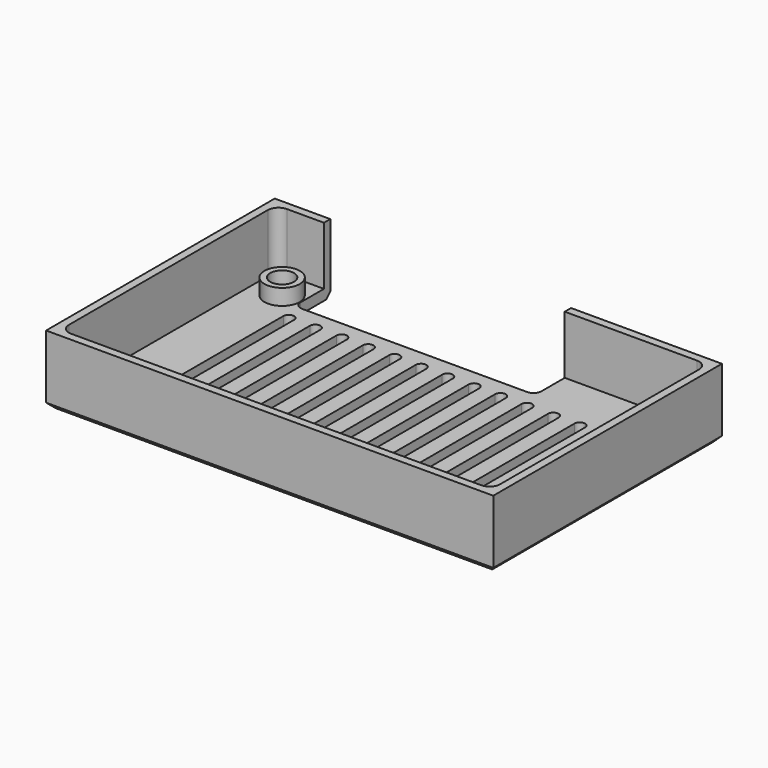
from build123d import *

# Parameters (mm, degrees)
F0_W      = 84.5
F0_H      = 54
F1_DEPTH  = 11
F2_W      = 84.5
F2_H      = 54
F3_DEPTH  = 2
F4_R      = 2.25
F5_DEPTH  = 12.5
F6_R      = 3.35
F6_R_2    = 2.25
F7_DEPTH  = 3
F8_SIZE   = 1
F10_DEPTH = 2


with BuildPart() as f1:
    # F0 (on Top) → F1 (new body)
    with BuildSketch(Plane.XY):
        Rectangle(F0_W, F0_H)
        with BuildLine():
            Line((-40.75, -23.5), (-40.75, 23.5))
            ThreePointArc((-40.75, 23.5), (-40.164214, 24.914214), (-38.75, 25.5))
            Line((-38.75, 25.5), (38.75, 25.5))
            ThreePointArc((38.75, 25.5), (40.164214, 24.914214), (40.75, 23.5))
            Line((40.75, 23.5), (40.75, -23.5))
            ThreePointArc((40.75, -23.5), (40.164214, -24.914214), (38.75, -25.5))
            Line((38.75, -25.5), (-38.75, -25.5))
            ThreePointArc((-38.75, -25.5), (-40.164214, -24.914214), (-40.75, -23.5))
        make_face(mode=Mode.SUBTRACT)
    extrude(amount=F1_DEPTH)

    # F2 (on face) → F3 (join)
    with BuildSketch(Plane(origin=(0, 0, 0), x_dir=(1, 0, 0), z_dir=(0, 0, -1))):
        Rectangle(F2_W, F2_H)
    extrude(amount=F3_DEPTH)

    # F4 (on face) → F5 (cut, symmetric)
    with BuildSketch(Plane.XY):
        with Locations((-35.25, 20)):
            Circle(F4_R)
        with BuildLine():
            ThreePointArc((-31.75, 20), (-31.31066, 18.93934), (-30.25, 18.5))
            Line((-30.25, 18.5), (12.25, 18.5))
            ThreePointArc((12.25, 18.5), (13.31066, 18.93934), (13.75, 20))
            Line((13.75, 20), (13.75, 27))
            Line((13.75, 27), (-31.75, 27))
            Line((-31.75, 27), (-31.75, 20))
        make_face()
        with Locations((-35.25, -20)):
            Circle(F4_R)
        with Locations((35.25, 20)):
            Circle(F4_R)
        with Locations((35.25, -20)):
            Circle(F4_R)
    extrude(amount=F5_DEPTH, both=True, mode=Mode.SUBTRACT)

    # F6 (on face) → F7 (join)
    with BuildSketch(Plane.XY):
        with Locations((-35.25, 20)):
            Circle(F6_R)
        with Locations((-35.25, 20)):
            Circle(F6_R_2, mode=Mode.SUBTRACT)
        with Locations((35.25, 20)):
            Circle(F6_R)
        with Locations((35.25, 20)):
            Circle(F6_R_2, mode=Mode.SUBTRACT)
        with Locations((-35.25, -20)):
            Circle(F6_R)
        with Locations((-35.25, -20)):
            Circle(F6_R_2, mode=Mode.SUBTRACT)
        with Locations((35.25, -20)):
            Circle(F6_R)
        with Locations((35.25, -20)):
            Circle(F6_R_2, mode=Mode.SUBTRACT)
    extrude(amount=F7_DEPTH)

    # F8
    f8_edges = [f1.edges().sort_by_distance(p)[0] for p in [
        (-42.25, 0, -2),
        (-37, 27, -2),
        (28, 27, -2),
        (0, -27, -2),
        (42.25, 0, -2),
    ]]
    chamfer(f8_edges, length=F8_SIZE)

    # F9 (on face) → F10 (cut, through all)
    with BuildSketch(Plane.XY):
        with BuildLine():
            ThreePointArc((1, 15), (0, 16), (-1, 15))
            Line((-1, 15), (-1, -15))
            ThreePointArc((-1, -15), (0, -16), (1, -15))
            Line((1, -15), (1, 15))
        make_face()
        with BuildLine():
            Line((6, -15), (6, 15))
            ThreePointArc((6, 15), (5, 16), (4, 15))
            Line((4, 15), (4, -15))
            ThreePointArc((4, -15), (5, -16), (6, -15))
        make_face()
        with BuildLine():
            Line((11, -15), (11, 15))
            ThreePointArc((11, 15), (10, 16), (9, 15))
            Line((9, 15), (9, -15))
            ThreePointArc((9, -15), (10, -16), (11, -15))
        make_face()
        with BuildLine():
            Line((16, -15), (16, 15))
            ThreePointArc((16, 15), (15, 16), (14, 15))
            Line((14, 15), (14, -15))
            ThreePointArc((14, -15), (15, -16), (16, -15))
        make_face()
        with BuildLine():
            Line((21, -15), (21, 15))
            ThreePointArc((21, 15), (20, 16), (19, 15))
            Line((19, 15), (19, -15))
            ThreePointArc((19, -15), (20, -16), (21, -15))
        make_face()
        with BuildLine():
            Line((26, -15), (26, 15))
            ThreePointArc((26, 15), (25, 16), (24, 15))
            Line((24, 15), (24, -15))
            ThreePointArc((24, -15), (25, -16), (26, -15))
        make_face()
        with BuildLine():
            Line((-4, -15), (-4, 15))
            ThreePointArc((-4, 15), (-5, 16), (-6, 15))
            Line((-6, 15), (-6, -15))
            ThreePointArc((-6, -15), (-5, -16), (-4, -15))
        make_face()
        with BuildLine():
            Line((-9, -15), (-9, 15))
            ThreePointArc((-9, 15), (-10, 16), (-11, 15))
            Line((-11, 15), (-11, -15))
            ThreePointArc((-11, -15), (-10, -16), (-9, -15))
        make_face()
        with BuildLine():
            Line((-14, -15), (-14, 15))
            ThreePointArc((-14, 15), (-15, 16), (-16, 15))
            Line((-16, 15), (-16, -15))
            ThreePointArc((-16, -15), (-15, -16), (-14, -15))
        make_face()
        with BuildLine():
            Line((-19, -15), (-19, 15))
            ThreePointArc((-19, 15), (-20, 16), (-21, 15))
            Line((-21, 15), (-21, -15))
            ThreePointArc((-21, -15), (-20, -16), (-19, -15))
        make_face()
        with BuildLine():
            Line((-24, -15), (-24, 15))
            ThreePointArc((-24, 15), (-25, 16), (-26, 15))
            Line((-26, 15), (-26, -15))
            ThreePointArc((-26, -15), (-25, -16), (-24, -15))
        make_face()
        with BuildLine():
            Line((-29, -15), (-29, 15))
            ThreePointArc((-29, 15), (-30, 16), (-31, 15))
            Line((-31, 15), (-31, -15))
            ThreePointArc((-31, -15), (-30, -16), (-29, -15))
        make_face()
        with BuildLine():
            Line((31, -15), (31, 15))
            ThreePointArc((31, 15), (30, 16), (29, 15))
            Line((29, 15), (29, -15))
            ThreePointArc((29, -15), (30, -16), (31, -15))
        make_face()
    extrude(amount=-F10_DEPTH, mode=Mode.SUBTRACT)


solid = f1.part
